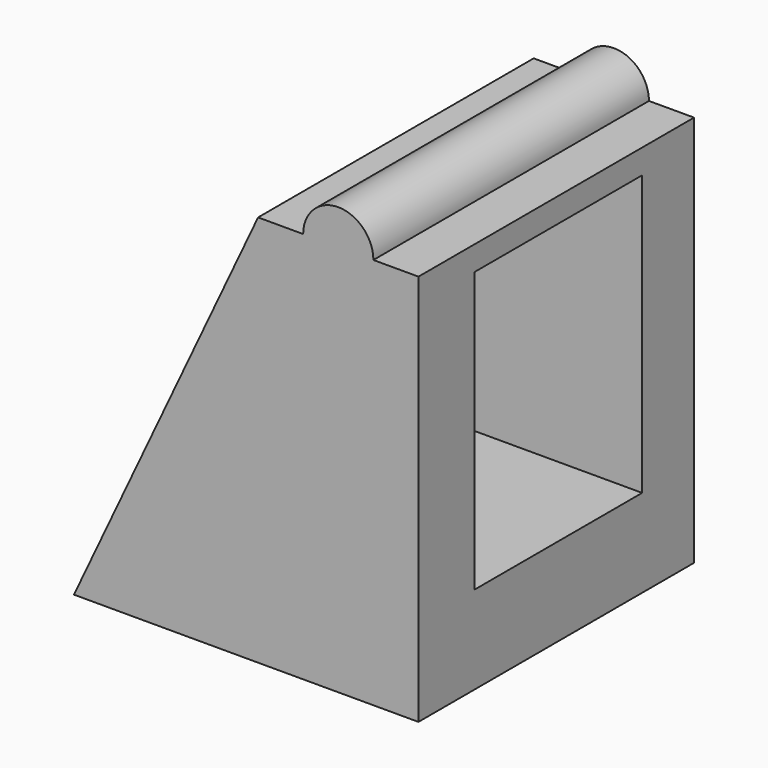
from build123d import *

# Parameters (mm, degrees)
F1_DEPTH = 15.8
F2_W     = 9.6186874434
F2_H     = 12.8249200061
F3_DEPTH = 55


with BuildPart() as f1:
    # F0 (on Front) → F1 (new body)
    with BuildSketch(Plane.XZ):
        with BuildLine():
            Line((-16.875410071, 11.5593611415), (-16.875410071, 29.5386719365))
            Line((-16.875410071, 29.5386719365), (-18.942996548, 29.5386719365))
            ThreePointArc((-18.942996548, 29.5386719365), (-20.552996548, 27.9286719365), (-22.162996548, 29.5386719365))
            Line((-22.162996548, 29.5386719365), (-24.2305830251, 29.5386719365))
            Line((-24.2305830251, 29.5386719365), (-32.675410071, 11.5593611415))
            Line((-32.675410071, 11.5593611415), (-16.875410071, 11.5593611415))
        make_face()
        with BuildLine():
            ThreePointArc((-22.162996548, 29.5386719365), (-20.552996548, 27.9286719365), (-18.942996548, 29.5386719365))
            Line((-18.942996548, 29.5386719365), (-22.162996548, 29.5386719365))
        make_face()
        with BuildLine():
            Line((-22.162996548, 29.5386719365), (-18.942996548, 29.5386719365))
            ThreePointArc((-18.942996548, 29.5386719365), (-20.552996548, 31.1486719365), (-22.162996548, 29.5386719365))
        make_face()
    extrude(amount=-F1_DEPTH)

    # F2 (on Right) → F3 (cut)
    with BuildSketch(Plane.YZ):
        with Locations((8.0155734904, 22.0063938759)):
            Rectangle(F2_W, F2_H)
    extrude(amount=-F3_DEPTH, mode=Mode.SUBTRACT)


solid = f1.part
